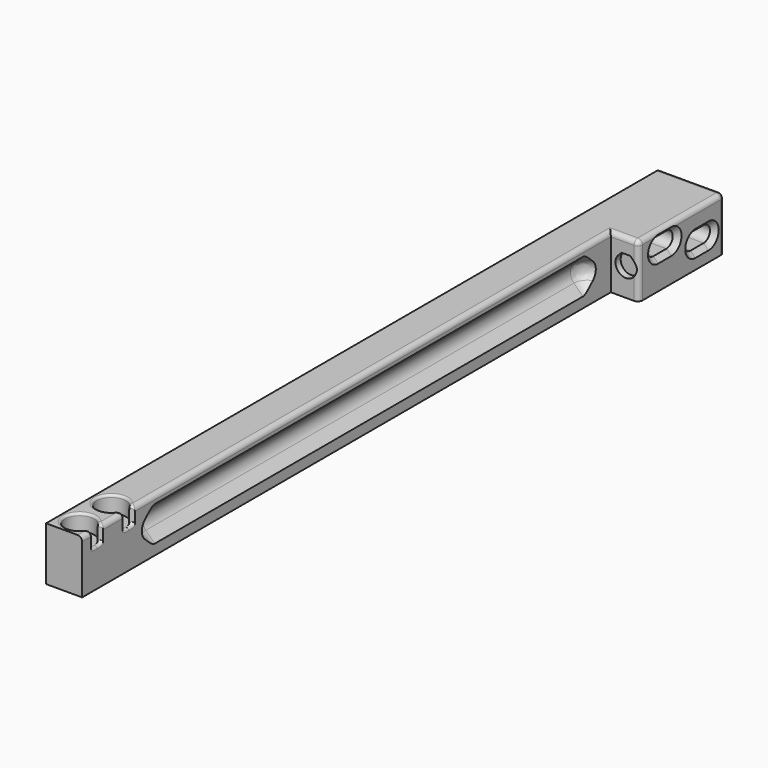
from build123d import *

# Parameters (mm, degrees)
BOX_W                    = 3
BOX_H                    = 124
BOX_DEPTH                = 8
FILLET005_R              = 2
PAD004_DEPTH             = 20
ARRAY_COUNT              = 4
ARRAY001_X_COUNT         = 2
ARRAY001_X_PITCH         = 9.414214
ARRAY001_Y_COUNT         = 14
ARRAY001_Y_PITCH         = 9.414214
ARRAY001_PITCH_ANGLE     = -45
PAD009_DEPTH             = 1.4
CLONE017_ROLL_ANGLE      = 90
CLONE017_PLACEMENT_ANGLE = 180
REVOLUTION001_ANGLE      = -90
PAD008_DEPTH             = 1.75
CLONE015_PITCH_ANGLE     = 90
CLONE015_PLACEMENT_ANGLE = -90
CLONE014_PITCH_ANGLE     = 90
CLONE014_PLACEMENT_ANGLE = -90
CLONE001_ROLL_ANGLE      = 90
CLONE_ROLL_ANGLE         = 90
FILLET003_R              = 2.6
CLONE007_ROLL_ANGLE      = 90
SKETCH015_W              = 165
SKETCH015_H              = 11.5
PAD007_DEPTH             = 7.75
SKETCH_W                 = 23
SKETCH_H                 = 11.5
PAD_DEPTH                = 6
FILLET_R                 = 1
FILLET004_R              = 0.5


with BuildPart() as obj1:
    # Box → Box (new body)
    with BuildSketch(Plane(origin=(0, 18, 2), x_dir=(1, 0, 0), z_dir=(0, 0, 1))):
        with Locations((1.5, 62)):
            Rectangle(BOX_W, BOX_H)
    extrude(amount=BOX_DEPTH)

    # Fillet005
    fillet005_edges = [obj1.edges().sort_by_distance(p)[0] for p in [
        (1.5, 18, 2),
        (1.5, 18, 10),
        (1.5, 142, 2),
        (1.5, 142, 10),
    ]]
    fillet(fillet005_edges, radius=FILLET005_R)


with BuildPart() as polarpattern:
    # Sketch012 → Pad004 (new body)
    with BuildSketch(Plane.XY):
        Polygon((1.207107, 0.5), (4.207107, 3.5), (4.207107, 0.5), align=None)
    extrude(amount=PAD004_DEPTH)

    # Array: PolarPattern ×4 about axis
    array_axis = Axis((0, 0, 0), (0, 0, 1))


with BuildPart() as polarpattern_1:
    add(polarpattern.part)
    for i in range(1, ARRAY_COUNT):
        add(polarpattern.part.rotate(array_axis, i * 360 / ARRAY_COUNT))


with BuildPart() as obj2:
    # Part__Mirroring001: instance of PolarPattern
    add(polarpattern_1.part.mirror(Plane(origin=(0, 0, 0), x_dir=(0, -1, 0), z_dir=(1, 0, 0))))

    # Compound: union PolarPattern
    add(polarpattern_1.part)

    # Array001 X: obj2_2


with BuildPart() as obj2_1:
    add(obj2.part)
    with Locations(*[(i * ARRAY001_X_PITCH, 0, 0) for i in range(1, ARRAY001_X_COUNT)]):
        add(obj2.part)

    # Array001 Y: obj2 ×14


with BuildPart() as obj2_2:
    add(obj2_1.part)
    with Locations(*[(0, i * ARRAY001_Y_PITCH, 0) for i in range(1, ARRAY001_Y_COUNT)]):
        add(obj2_1.part)


with BuildPart() as obj2_3:
    # Array001 pitch: moved
    add(obj2_2.part.rotate(Axis((0, 0, 0), (0, 1, 0)), ARRAY001_PITCH_ANGLE))


with BuildPart() as obj2_4:
    # Array001 placement: moved
    add(obj2_3.part.moved(Location((2, 22, -4))))

    # Common: intersect obj1
    add(obj1.part, mode=Mode.INTERSECT)


with BuildPart() as clone_of_magnetslot001:
    # Sketch019 → Pad009 (new body)
    with BuildSketch(Plane.XY):
        with BuildLine():
            ThreePointArc((-1.590999, 1.590981), (0, -2.25), (1.590999, 1.590981))
            Line((0.931981, 2.25), (1.590999, 1.590981))
            Line((-0.931981, 2.25), (0.931981, 2.25))
            Line((-1.590999, 1.590981), (-0.931981, 2.25))
        make_face()
    extrude(amount=PAD009_DEPTH)


with BuildPart() as clone_of_magnetslot001_1:
    # Clone017 roll: moved
    add(clone_of_magnetslot001.part.rotate(Axis((0, 0, 0), (1, 0, 0)), CLONE017_ROLL_ANGLE))


with BuildPart() as clone_of_magnetslot001_2:
    # Clone017 placement: moved
    add(clone_of_magnetslot001_1.part.moved(Location((11, 142, 6))).rotate(Axis((11, 142, 6), (0, 0, 1)), CLONE017_PLACEMENT_ANGLE))


with BuildPart() as m3din7991slot001:
    # Clone2D → Revolution001 (revolve)
    with BuildSketch(Plane.XY.offset(1.75)):
        Polygon((0, 0), (3, 0), (1.7, -1.3), (1.7, -40), (0, -40), align=None)
    revolve(axis=Axis((0, 0, 1.75), (0, 1, 0)), revolution_arc=REVOLUTION001_ANGLE)


with BuildPart() as slotquarter:
    # Sketch016 → Pad008 (new body)
    with BuildSketch(Plane.XY):
        Polygon((0, 0), (3, 0), (1.7, -1.3), (1.7, -40), (0, -40), align=None)
    extrude(amount=PAD008_DEPTH)

    # Fusion001: union M3DIN7991Slot001
    add(m3din7991slot001.part)


with BuildPart() as part_mirroring002:
    # Part__Mirroring002: instance of SlotQuarter
    add(slotquarter.part.mirror(Plane(origin=(0, 0, 0), x_dir=(0, -1, 0), z_dir=(1, 0, 0))))


with BuildPart() as fusion002:
    # Fusion002 base: copy of SlotQuarter
    add(slotquarter.part)

    # Fusion002: union Part__Mirroring002
    add(part_mirroring002.part)


with BuildPart() as part_mirroring003:
    # Part__Mirroring003: instance of Fusion002
    add(fusion002.part.mirror(Plane(origin=(0, 0, 0), x_dir=(0, 1, 0), z_dir=(0, 0, 1))))


with BuildPart() as refine_m3din7991boltslot:
    # Fusion003 base: copy of Fusion002
    add(fusion002.part)

    # Fusion003: union Part__Mirroring003
    add(part_mirroring003.part)


with BuildPart() as clone_of_refine_m3din7991boltslot001:
    # Clone015 base: copy of refine_M3DIN7991BoltSlot
    add(refine_m3din7991boltslot.part)


with BuildPart() as clone_of_refine_m3din7991boltslot001_1:
    # Clone015 pitch: moved
    add(clone_of_refine_m3din7991boltslot001.part.rotate(Axis((0, 0, 0), (0, 1, 0)), CLONE015_PITCH_ANGLE))


with BuildPart() as clone_of_refine_m3din7991boltslot001_2:
    # Clone015 placement: moved
    add(clone_of_refine_m3din7991boltslot001_1.part.moved(Location((14, 149, 8))).rotate(Axis((14, 149, 8), (0, 0, 1)), CLONE015_PLACEMENT_ANGLE))


with BuildPart() as clone_of_refine_m3din7991boltslot:
    # Clone014 base: copy of refine_M3DIN7991BoltSlot
    add(refine_m3din7991boltslot.part)


with BuildPart() as clone_of_refine_m3din7991boltslot_1:
    # Clone014 pitch: moved
    add(clone_of_refine_m3din7991boltslot.part.rotate(Axis((0, 0, 0), (0, 1, 0)), CLONE014_PITCH_ANGLE))


with BuildPart() as clone_of_refine_m3din7991boltslot_2:
    # Clone014 placement: moved
    add(clone_of_refine_m3din7991boltslot_1.part.moved(Location((14, 159, 5))).rotate(Axis((14, 159, 5), (0, 0, 1)), CLONE014_PLACEMENT_ANGLE))


with BuildPart() as din912m3bolt001:
    # Sketch001 → Revolution (revolve)
    with BuildSketch(Plane.XY):
        Polygon((0, 4), (3.1, 4), (3.1, 0), (1.4, 0), (1.4, -20), (0, -20), align=None)
    revolve(axis=Axis((0, 0, 0), (0, 1, 0)))


with BuildPart() as clone_of_din912m3bolt002:
    # Clone001 base: copy of DIN912M3Bolt001
    add(din912m3bolt001.part)


with BuildPart() as clone_of_din912m3bolt002_1:
    # Clone001 roll: moved
    add(clone_of_din912m3bolt002.part.rotate(Axis((0, 0, 0), (1, 0, 0)), CLONE001_ROLL_ANGLE))


with BuildPart() as clone_of_din912m3bolt002_2:
    # Clone001 placement: moved
    add(clone_of_din912m3bolt002_1.part.moved(Location((4, 12.5, 8))))


with BuildPart() as clone_of_din912m3bolt001:
    # Clone base: copy of DIN912M3Bolt001
    add(din912m3bolt001.part)


with BuildPart() as clone_of_din912m3bolt001_1:
    # Clone roll: moved
    add(clone_of_din912m3bolt001.part.rotate(Axis((0, 0, 0), (1, 0, 0)), CLONE_ROLL_ANGLE))


with BuildPart() as clone_of_din912m3bolt001_2:
    # Clone placement: moved
    add(clone_of_din912m3bolt001_1.part.moved(Location((4, 4, 8))))


with BuildPart() as railfillet:
    # Sweep: sweep along a path in Sketch005
    with BuildLine(Plane.XZ) as sweep_path:
        Line((6.5, 0), (6.5, 57.5))
        ThreePointArc((6.5, 57.5), (7.671565, 60.328443), (10.500001, 61.500024))
        Line((10.500001, 61.500024), (18.500001, 61.500024))
    # Sketch011 → Sweep (sweep)
    with BuildSketch(Plane.XY):
        Polygon((10.2, 4.366273), (5.833727, 0), (10.2, -4.366273), align=None)
    sweep(path=sweep_path.line)

    # Fillet003
    fillet003_edges = [railfillet.edges().sort_by_distance(p)[0] for p in [
        (14.500005, 1.3e-05, 62.166285),
    ]]
    fillet(fillet003_edges, radius=FILLET003_R)


with BuildPart() as clone_of_guide:
    # Part__Mirroring: instance of RailFillet
    add(railfillet.part.mirror(Plane(origin=(0, 0, 0), x_dir=(0, 1, 0), z_dir=(0, 0, 1))))

    # Fusion: union RailFillet
    add(railfillet.part)


with BuildPart() as clone_of_guide_1:
    # Clone007 roll: moved
    add(clone_of_guide.part.rotate(Axis((0, 0, 0), (1, 0, 0)), CLONE007_ROLL_ANGLE))


with BuildPart() as clone_of_guide_2:
    # Clone007 placement: moved
    add(clone_of_guide_1.part.moved(Location((-1.835, 77, 6))))


with BuildPart() as materialreduction:
    # Sketch015 → Pad007 (new body)
    with BuildSketch(Plane.YZ):
        with Locations((82.5, 5.75)):
            Rectangle(SKETCH015_W, SKETCH015_H)
    extrude(amount=PAD007_DEPTH)

    # Sketch → Pad (new body)
    with BuildSketch(Plane.YZ.offset(7.75)):
        with Locations((153.5, 5.75)):
            Rectangle(SKETCH_W, SKETCH_H)
    extrude(amount=PAD_DEPTH)

    # Fillet
    fillet_edges = [materialreduction.edges().sort_by_distance(p)[0] for p in [
        (0, 165, 5.75),
        (7.75, 71, 11.5),
        (13.75, 142, 5.75),
        (10.75, 142, 11.5),
        (13.75, 153.5, 11.5),
        (13.75, 165, 5.75),
        (6.875, 165, 11.5),
    ]]
    fillet(fillet_edges, radius=FILLET_R)

    # Cut: cut Clone of Guide
    add(clone_of_guide_2.part, mode=Mode.SUBTRACT)

    # Cut001: cut Clone of DIN912M3Bolt001
    add(clone_of_din912m3bolt001_2.part, mode=Mode.SUBTRACT)

    # Cut002: cut Clone of DIN912M3Bolt002
    add(clone_of_din912m3bolt002_2.part, mode=Mode.SUBTRACT)

    # Fillet004
    fillet004_edges = [materialreduction.edges().sort_by_distance(p)[0] for p in [
        (7.011198, 11.763327, 11.465285),
        (7.011198, 3.263327, 11.465285),
    ]]
    fillet(fillet004_edges, radius=FILLET004_R)

    # Cut003: cut Clone of refine_M3DIN7991BoltSlot
    add(clone_of_refine_m3din7991boltslot_2.part, mode=Mode.SUBTRACT)

    # Cut004: cut Clone of refine_M3DIN7991BoltSlot001
    add(clone_of_refine_m3din7991boltslot001_2.part, mode=Mode.SUBTRACT)

    # Cut006: cut Clone of MagnetSlot001
    add(clone_of_magnetslot001_2.part, mode=Mode.SUBTRACT)

    # Cut005: cut obj2
    add(obj2_4.part, mode=Mode.SUBTRACT)


solid = materialreduction.part
